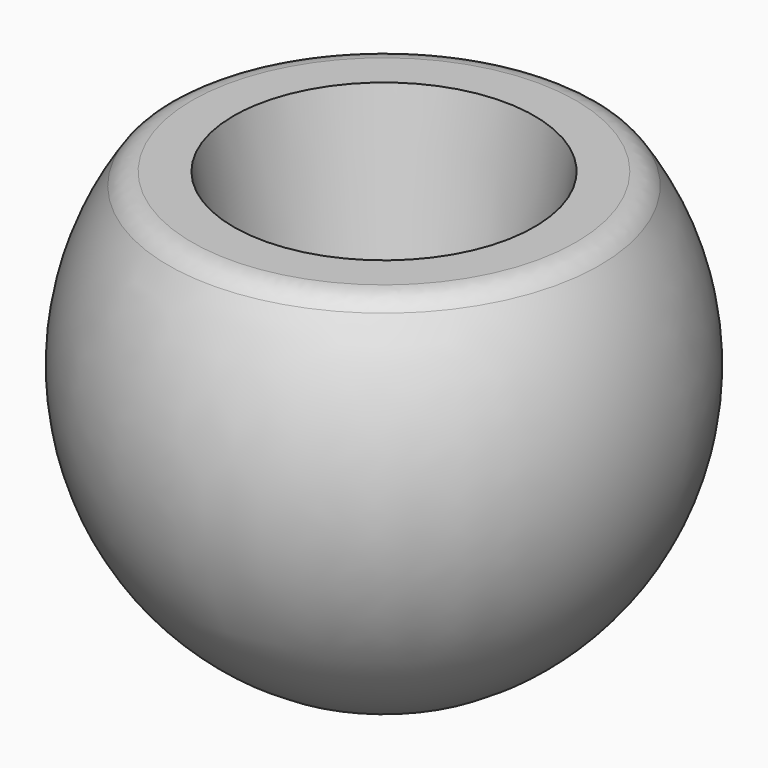
from build123d import *

# Parameters (mm, degrees)
F4_R = 6.9286304739


with BuildPart() as f1:
    # F0 (on Front) → F1 (revolve)
    with BuildSketch(Plane.XZ):
        with BuildLine():
            Line((-30, 0), (0, 0))
            Line((0, 0), (0, 100))
            Line((0, 100), (-50, 100))
            ThreePointArc((-50, 100), (-62.5656448385, 45.4868710323), (-30, 0))
        make_face()
    revolve(axis=Axis((0, 0, 50), (0, 0, -1)))

    # F2 (on Front) → F3 (revolve, cut)
    with BuildSketch(Plane.XZ):
        Polygon((-20.3507989645, 10), (-0.3507989645, 10), (0.0649137811, 119.999214465), (-39.9350862189, 119.999214465), align=None)
    revolve(axis=Axis((-0.1429425917, 0, 64.9996072325), (-0.0037792068, 0, -0.9999928588)), mode=Mode.SUBTRACT)

    # F4
    f4_edges = [f1.edges().sort_by_distance(p)[0] for p in [
        (50, 0, 100),
    ]]
    fillet(f4_edges, radius=F4_R)


solid = f1.part
